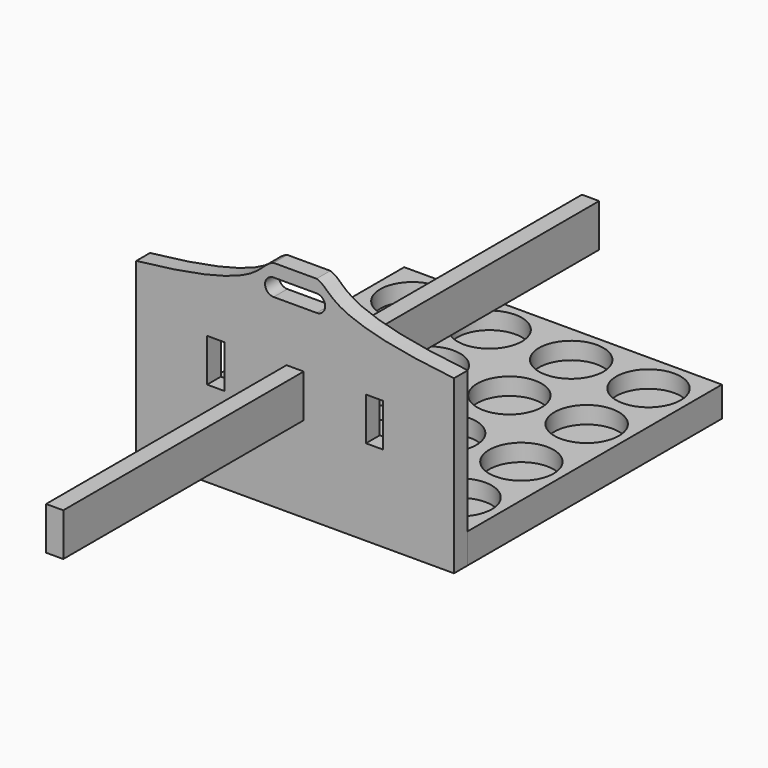
from build123d import *

# Parameters (mm, degrees)
F1_W     = 74
F1_H     = 74
F1_R     = 7.5
F2_DEPTH = 7
F3_DEPTH = 4
F4_W     = 4
F4_H     = 10
F4_W_2   = 10
F4_H_2   = 3
F5_DEPTH = 4
F6_DEPTH = 82
F7_DEPTH = 74


with BuildPart() as f2:
    # F1 (on Top) → F2 (new body)
    with BuildSketch(Plane.XY):
        Rectangle(F1_W, F1_H)
        with Locations((-27.5, -27.5)):
            Circle(F1_R, mode=Mode.SUBTRACT)
        with Locations((-9.5, -27.5)):
            Circle(F1_R, mode=Mode.SUBTRACT)
        with Locations((-27.5, -9.5)):
            Circle(F1_R, mode=Mode.SUBTRACT)
        with Locations((-9.5, -9.5)):
            Circle(F1_R, mode=Mode.SUBTRACT)
        with Locations((9.5, -27.5)):
            Circle(F1_R, mode=Mode.SUBTRACT)
        with Locations((27.5, -27.5)):
            Circle(F1_R, mode=Mode.SUBTRACT)
        with Locations((9.5, -9.5)):
            Circle(F1_R, mode=Mode.SUBTRACT)
        with Locations((27.5, -9.5)):
            Circle(F1_R, mode=Mode.SUBTRACT)
        with Locations((-27.5, 9.5)):
            Circle(F1_R, mode=Mode.SUBTRACT)
        with Locations((-9.5, 9.5)):
            Circle(F1_R, mode=Mode.SUBTRACT)
        with Locations((-27.5, 27.5)):
            Circle(F1_R, mode=Mode.SUBTRACT)
        with Locations((-9.5, 27.5)):
            Circle(F1_R, mode=Mode.SUBTRACT)
        with Locations((9.5, 9.5)):
            Circle(F1_R, mode=Mode.SUBTRACT)
        with Locations((27.5, 9.5)):
            Circle(F1_R, mode=Mode.SUBTRACT)
        with Locations((9.5, 27.5)):
            Circle(F1_R, mode=Mode.SUBTRACT)
        with Locations((27.5, 27.5)):
            Circle(F1_R, mode=Mode.SUBTRACT)
        with Locations((-27.5, 27.5)):
            Circle(F1_R)
        with Locations((-27.5, -27.5)):
            Circle(F1_R)
        with Locations((27.5, 27.5)):
            Circle(F1_R)
        with Locations((27.5, -27.5)):
            Circle(F1_R)
        with Locations((-27.5, -9.5)):
            Circle(F1_R)
        with Locations((-27.5, 9.5)):
            Circle(F1_R)
        with Locations((-9.5, 27.5)):
            Circle(F1_R)
        with Locations((-9.5, 9.5)):
            Circle(F1_R)
        with Locations((-9.5, -9.5)):
            Circle(F1_R)
        with Locations((-9.5, -27.5)):
            Circle(F1_R)
        with Locations((9.5, -27.5)):
            Circle(F1_R)
        with Locations((9.5, -9.5)):
            Circle(F1_R)
        with Locations((9.5, 9.5)):
            Circle(F1_R)
        with Locations((9.5, 27.5)):
            Circle(F1_R)
        with Locations((27.5, -9.5)):
            Circle(F1_R)
        with Locations((27.5, 9.5)):
            Circle(F1_R)
    extrude(amount=-F2_DEPTH)

    # F1 (on Top) → F3 (cut)
    with BuildSketch(Plane.XY):
        with Locations((-27.5, -27.5)):
            Circle(F1_R)
        with Locations((-27.5, 27.5)):
            Circle(F1_R)
        with Locations((27.5, 27.5)):
            Circle(F1_R)
        with Locations((27.5, -27.5)):
            Circle(F1_R)
        with Locations((-27.5, -9.5)):
            Circle(F1_R)
        with Locations((-27.5, 9.5)):
            Circle(F1_R)
        with Locations((-9.5, -27.5)):
            Circle(F1_R)
        with Locations((-9.5, -9.5)):
            Circle(F1_R)
        with Locations((-9.5, 9.5)):
            Circle(F1_R)
        with Locations((-9.5, 27.5)):
            Circle(F1_R)
        with Locations((9.5, 27.5)):
            Circle(F1_R)
        with Locations((9.5, 9.5)):
            Circle(F1_R)
        with Locations((9.5, -9.5)):
            Circle(F1_R)
        with Locations((9.5, -27.5)):
            Circle(F1_R)
        with Locations((27.5, -9.5)):
            Circle(F1_R)
        with Locations((27.5, 9.5)):
            Circle(F1_R)
    extrude(amount=-F3_DEPTH, mode=Mode.SUBTRACT)


with BuildPart() as f5:
    # F4 (on face) → F5 (new body)
    with BuildSketch(Plane.XZ.offset(37)):
        Polygon((-37, 33), (-37, -7), (37, -7), (37, 33), (5, 33), (-5, 33), align=None)
        with Locations((-18.5, 18)):
            Rectangle(F4_W, F4_H, mode=Mode.SUBTRACT)
        with Locations((0, 18)):
            Rectangle(F4_W, F4_H, mode=Mode.SUBTRACT)
        with Locations((18.5, 18)):
            Rectangle(F4_W, F4_H, mode=Mode.SUBTRACT)
        with BuildLine():
            add(Edge.make_bspline(
                [(-37, 33), (-6.3423160464, 36.2739004195), (-9.2948594391, 41.5539657871), (-5, 43)],
                knots=[0, 0, 0, 0, 33.5261092285, 33.5261092285, 33.5261092285, 33.5261092285], degree=3))
            Line((-37, 33), (-5, 33))
            Line((-5, 33), (-5, 36))
            ThreePointArc((-5, 36), (-7, 38), (-5, 40))
            Line((-5, 40), (-5, 43))
        make_face()
        with BuildLine():
            Line((5, 33), (37, 33))
            add(Edge.make_bspline(
                [(37, 33), (6.3423160464, 36.2739004195), (9.2948594391, 41.5539657871), (5, 43)],
                knots=[0, 0, 0, 0, 33.5261092285, 33.5261092285, 33.5261092285, 33.5261092285], degree=3))
            Line((5, 43), (5, 40))
            ThreePointArc((5, 40), (6.4142135624, 39.4142135624), (7, 38))
            ThreePointArc((7, 38), (6.4142135624, 36.5857864376), (5, 36))
            Line((5, 36), (5, 33))
        make_face()
        with Locations((0, 41.5)):
            Rectangle(F4_W_2, F4_H_2)
        with Locations((0, 34.5)):
            Rectangle(F4_W_2, F4_H_2)
    extrude(amount=F5_DEPTH)

    # F4 (on face) → F6 (join)
    with BuildSketch(Plane.XZ.offset(37)):
        with Locations((0, 18)):
            Rectangle(F4_W, F4_H)
    extrude(amount=-F6_DEPTH)


with BuildPart() as f7:
    # F4 (on face) → F7 (new body)
    with BuildSketch(Plane.XZ.offset(37)):
        with Locations((0, 18)):
            Rectangle(F4_W, F4_H)
    extrude(amount=F7_DEPTH)


solid = Compound([f2.part, f5.part, f7.part])
